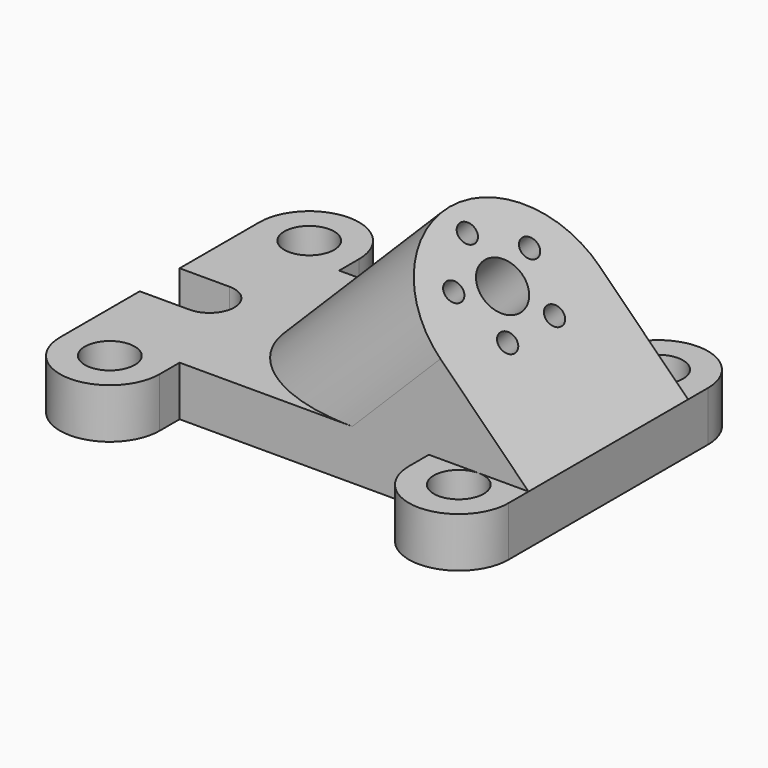
from build123d import *

# Parameters (mm, degrees)
F1_R      = 6.35
F2_DEPTH  = 12.7
F4_DEPTH  = 12.701
F8_R      = 2.54
F10_DEPTH = 6.35
F9_R      = 6.35
F11_DEPTH = 89.8035612107


with BuildPart() as f2:
    # F1 (on Top) → F2 (new body)
    with BuildSketch(Plane.XY):
        with BuildLine():
            ThreePointArc((-31.75, 31.75), (-44.45, 44.45), (-57.15, 31.75))
            Line((-57.15, 31.75), (-57.15, 6.35))
            Line((-57.15, 6.35), (-44.45, 6.35))
            ThreePointArc((-44.45, 6.35), (-38.1, 0), (-44.45, -6.35))
            Line((-44.45, -6.35), (-57.15, -6.35))
            Line((-57.15, -6.35), (-57.15, -31.75))
            ThreePointArc((-57.15, -31.75), (-44.45, -44.45), (-31.75, -31.75))
            Line((-31.75, -31.75), (-31.75, -25.4))
            Line((-31.75, -25.4), (31.75, -25.4))
            Line((31.75, -25.4), (31.75, -31.75))
            ThreePointArc((31.75, -31.75), (44.45, -44.45), (57.15, -31.75))
            Line((57.15, -31.75), (57.15, 31.75))
            ThreePointArc((57.15, 31.75), (44.45, 44.45), (31.75, 31.75))
            Line((31.75, 31.75), (31.75, 25.4))
            Line((31.75, 25.4), (-31.75, 25.4))
            Line((-31.75, 25.4), (-31.75, 31.75))
        make_face()
        with Locations((-44.45, -31.75)):
            Circle(F1_R, mode=Mode.SUBTRACT)
        with Locations((44.45, -31.75)):
            Circle(F1_R, mode=Mode.SUBTRACT)
        with Locations((-44.45, 31.75)):
            Circle(F1_R, mode=Mode.SUBTRACT)
        with Locations((44.45, 31.75)):
            Circle(F1_R, mode=Mode.SUBTRACT)
        with Locations((-44.45, -31.75)):
            Circle(F1_R)
        with Locations((-44.45, 31.75)):
            Circle(F1_R)
        with Locations((44.45, 31.75)):
            Circle(F1_R)
        with Locations((44.45, -31.75)):
            Circle(F1_R)
    extrude(amount=-F2_DEPTH)

    # F1 (on Top) → F4 (cut, through all)
    with BuildSketch(Plane.XY):
        with Locations((-44.45, -31.75)):
            Circle(F1_R)
        with Locations((-44.45, 31.75)):
            Circle(F1_R)
        with Locations((44.45, 31.75)):
            Circle(F1_R)
        with Locations((44.45, -31.75)):
            Circle(F1_R)
    extrude(amount=-F4_DEPTH, mode=Mode.SUBTRACT)

    # F6 (on face) → F7 (join, up to the next surface of F2)
    with BuildSketch(Plane(origin=(28.575, 0, 28.575), x_dir=(0.7071067812, 0, -0.7071067812), z_dir=(-0.7071067812, 0, -0.7071067812))):
        with BuildLine():
            Line((40.4111525448, -25.4), (40.4111525448, 25.4))
            Line((40.4111525448, 25.4), (8.6611525448, 25.4))
            ThreePointArc((8.6611525448, 25.4), (-16.7388474552, 0), (8.6611525448, -25.4))
            Line((8.6611525448, -25.4), (40.4111525448, -25.4))
        make_face()
    extrude(until=Until.NEXT)

    # F8 (on face) → F10 (cut)
    with BuildSketch(Plane(origin=(28.575, 0, 28.575), x_dir=(0.7071067812, 0, -0.7071067812), z_dir=(-0.7071067812, 0, -0.7071067812))):
        with Locations((-10.3888474552, 0)):
            Circle(F8_R)
        with Locations((-1.6133632838, -12.0784177569)):
            Circle(F8_R)
        with Locations((12.5856683734, -7.4648727041)):
            Circle(F8_R)
        with Locations((12.5856683734, 7.4648727041)):
            Circle(F8_R)
        with Locations((-1.6133632838, 12.0784177569)):
            Circle(F8_R)
    extrude(amount=F10_DEPTH, mode=Mode.SUBTRACT)

    # F9 (on face) → F11 (cut, through all)
    with BuildSketch(Plane(origin=(28.575, 0, 28.575), x_dir=(0.7071067812, 0, -0.7071067812), z_dir=(-0.7071067812, 0, -0.7071067812))):
        with Locations((2.3111525448, 0)):
            Circle(F9_R)
    extrude(amount=F11_DEPTH, mode=Mode.SUBTRACT)


solid = f2.part
